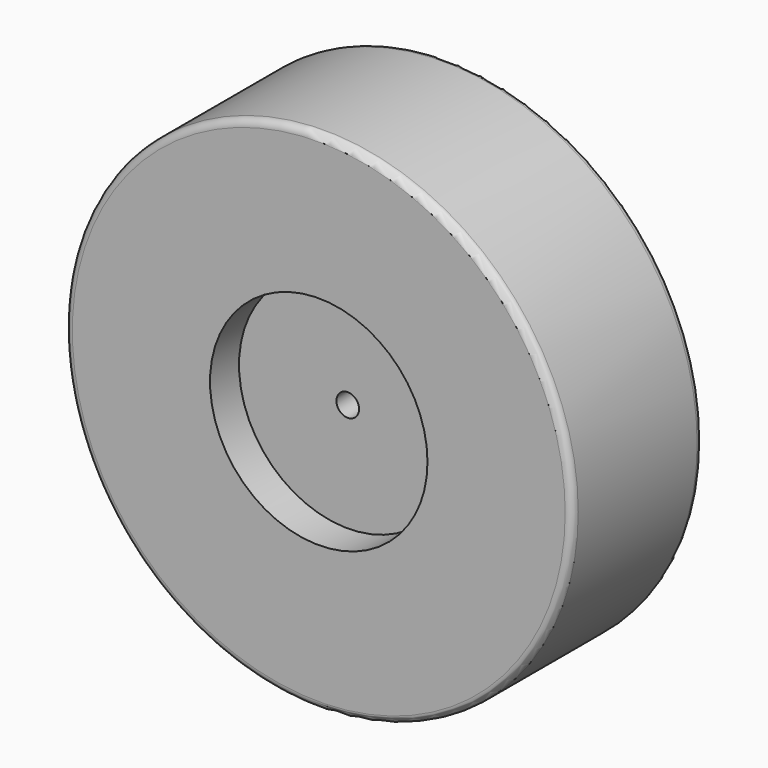
from build123d import *

# Parameters (mm, degrees)
F0_R     = 177.8
F0_R_2   = 76.2
F1_DEPTH = 57.15
F2_R     = 76.2
F3_DEPTH = 31.75
F4_R     = 7.9375
F5_DEPTH = 63.5
F6_R     = 5.08


with BuildPart() as f1:
    # F0 (on Front) → F1 (new body, symmetric)
    with BuildSketch(Plane.XZ):
        Circle(F0_R)
        Circle(F0_R_2, mode=Mode.SUBTRACT)
    extrude(amount=F1_DEPTH, both=True)

    # F2 (on Front) → F3 (join, symmetric)
    with BuildSketch(Plane.XZ):
        Circle(F2_R)
    extrude(amount=F3_DEPTH, both=True)

    # F4 (on face) → F5 (cut, symmetric)
    with BuildSketch(Plane.XZ.offset(31.75)):
        Circle(F4_R)
    extrude(amount=F5_DEPTH, both=True, mode=Mode.SUBTRACT)

    # F6
    f6_edges = [f1.edges().sort_by_distance(p)[0] for p in [
        (-177.8, -57.15, 0),
        (-177.8, 57.15, 0),
    ]]
    fillet(f6_edges, radius=F6_R)


solid = f1.part
